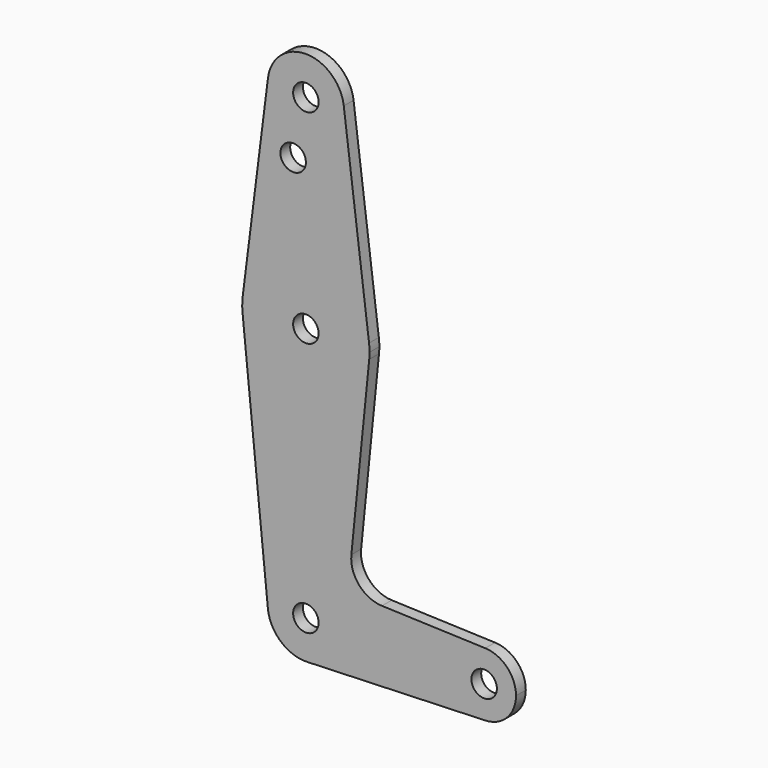
from build123d import *

# Parameters (mm, degrees)
F0_R     = 3.175
F1_DEPTH = 3.048


with BuildPart() as f1:
    # F0 (on Front) → F1 (new body)
    with BuildSketch(Plane.XZ):
        with BuildLine():
            ThreePointArc((-163.022022, 10.010471), (-154.168212, -0.686459), (-144.046729, 8.819846))
            ThreePointArc((-144.046729, 8.819846), (-144.065424, 9.416329), (-144.121436, 10.010471))
            ThreePointArc((-144.121436, 10.010471), (-153.571729, 18.344846), (-163.022022, 10.010471))
        make_face()
        with Locations((-153.571729, 8.819846)):
            Circle(F0_R, mode=Mode.SUBTRACT)
        with BuildLine():
            ThreePointArc((-144.121436, 10.010471), (-144.065424, 9.416329), (-144.046729, 8.819846))
            ThreePointArc((-144.046729, 8.819846), (-154.168212, -0.686459), (-163.022022, 10.010471))
            Line((-163.022022, 10.010471), (-169.322217, -39.995779))
            ThreePointArc((-169.322217, -39.995779), (-153.571729, -26.105154), (-137.821241, -39.995779))
            Line((-137.821241, -39.995779), (-144.121436, 10.010471))
        make_face()
        with Locations((-156.746729, -5.454954)):
            Circle(F0_R, mode=Mode.SUBTRACT)
        with BuildLine():
            ThreePointArc((-137.696729, -41.980154), (-137.727887, -40.986015), (-137.821241, -39.995779))
            ThreePointArc((-137.821241, -39.995779), (-153.571729, -26.105154), (-169.322217, -39.995779))
            ThreePointArc((-169.322217, -39.995779), (-169.445473, -41.780449), (-169.367155, -43.567654))
            ThreePointArc((-169.367155, -43.567654), (-153.571729, -57.855154), (-137.776303, -43.567654))
            ThreePointArc((-137.776303, -43.567654), (-137.716635, -42.774901), (-137.696729, -41.980154))
        make_face()
        with Locations((-153.571729, -41.980154)):
            Circle(F0_R, mode=Mode.SUBTRACT)
        with BuildLine():
            ThreePointArc((-137.776303, -43.567654), (-153.571729, -57.855154), (-169.367155, -43.567654))
            Line((-169.367155, -43.567654), (-163.048984, -106.432654))
            ThreePointArc((-163.048984, -106.432654), (-154.048577, -95.967098), (-144.046729, -105.480154))
            ThreePointArc((-144.046729, -105.480154), (-146.717321, -112.093981), (-153.23155, -114.999078))
            Line((-153.23155, -114.999078), (-120.831969, -113.841211))
            Line((-120.831969, -113.841211), (-108.838247, -113.41259))
            ThreePointArc((-108.838247, -113.41259), (-117.059229, -105.480154), (-108.838247, -97.547718))
            Line((-108.838247, -97.547718), (-134.604129, -96.62692))
            ThreePointArc((-134.604129, -96.62692), (-140.310529, -93.908795), (-142.230542, -87.886772))
            Line((-142.230542, -87.886772), (-137.776303, -43.567654))
        make_face()
        with BuildLine():
            ThreePointArc((-144.046729, -105.480154), (-154.048577, -95.967098), (-163.048984, -106.432654))
            ThreePointArc((-163.048984, -106.432654), (-159.834112, -112.657074), (-153.23155, -114.999078))
            ThreePointArc((-153.23155, -114.999078), (-146.717321, -112.093981), (-144.046729, -105.480154))
        make_face()
        with Locations((-153.571729, -105.480154)):
            Circle(F0_R, mode=Mode.SUBTRACT)
        with BuildLine():
            ThreePointArc((-101.184229, -105.480154), (-103.409722, -99.968631), (-108.838247, -97.547718))
            ThreePointArc((-108.838247, -97.547718), (-117.059229, -105.480154), (-108.838247, -113.41259))
            ThreePointArc((-108.838247, -113.41259), (-103.409722, -110.991677), (-101.184229, -105.480154))
        make_face()
        with Locations((-109.121729, -105.480154)):
            Circle(F0_R, mode=Mode.SUBTRACT)
    extrude(amount=F1_DEPTH)


solid = f1.part
